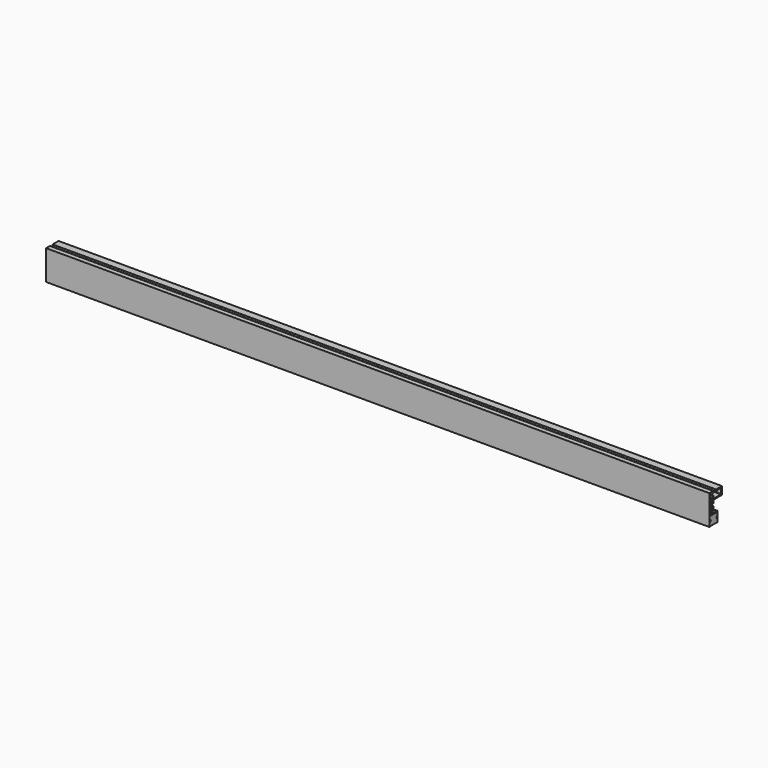
from build123d import *

# Parameters (mm, degrees)
F1_DEPTH = 900


with BuildPart() as f1:
    # F0 (on Right) → F1 (new body)
    with BuildSketch(Plane.YZ):
        Polygon((97.953237, 9.576591), (97.953237, 20.209017), (88.106465, 20.209017), (87.959187, 20.159924), (87.860829, 20.061739), (87.811737, 19.914461), (87.811737, 17.704432), (87.836541, 17.704432), (87.885806, 17.507717), (87.983819, 17.360612), (88.131269, 17.262254), (88.32764, 17.213162), (89.309664, 17.213162), (89.506207, 17.262254), (89.653657, 17.360612), (89.751842, 17.507717), (89.800935, 17.704432), (89.825395, 17.704432), (89.825395, 18.711261), (96.136121, 18.711261), (96.283571, 18.661997), (96.381584, 18.563811), (96.430677, 18.416361), (96.455309, 18.416361), (96.455309, 11.197164), (96.430677, 11.197164), (96.381584, 11.049886), (96.283571, 10.951701), (96.136121, 10.902263), (96.136121, 10.877976), (83.809397, 10.877976), (83.809397, 14.291204), (83.760132, 14.438482), (83.613027, 14.487747), (83.318299, 14.487747), (83.146388, 14.389389), (83.146388, 14.414022), (78.947506, 8.054203), (78.922874, 8.054203), (78.800056, 7.955846), (78.677238, 7.931385), (78.529961, 7.980478), (78.431775, 8.078663), (78.382683, 8.226113), (78.382683, 17.606075), (82.778108, 17.606075), (82.778108, 17.630707), (82.999283, 17.6798), (83.195481, 17.85171), (83.195481, 17.827078), (83.637487, 18.490086), (83.613027, 18.514719), (83.735672, 18.760354), (83.784937, 19.05491), (83.809397, 19.05491), (83.809397, 19.619733), (83.784937, 19.619733), (83.735672, 19.840736), (83.613027, 20.037279), (83.416656, 20.159924), (83.195481, 20.209017), (76.78657, 20.209017), (76.78657, -20.209016), (77.793399, -20.209016), (77.793399, -14.585931), (77.916045, -14.414021), (77.891584, -14.414021), (78.16168, -14.021108), (78.308958, -13.603562), (78.358223, -13.136924), (78.358223, -13.063371), (78.308958, -12.596733), (78.16168, -12.17936), (77.891584, -11.786274), (77.916045, -11.786274), (77.793399, -11.614708), (77.793399, -7.170018), (89.727382, -7.170018), (89.727382, -11.614708), (89.57976, -11.786274), (89.604564, -11.786274), (89.334469, -12.17936), (89.187019, -12.596733), (89.137926, -13.063371), (89.137926, -13.136924), (89.187019, -13.603562), (89.334469, -14.021108), (89.604564, -14.414021), (89.57976, -14.414021), (89.727382, -14.585931), (89.727382, -20.012645), (90.02211, -20.012645), (90.562129, -18.490085), (90.537669, -18.490085), (90.660314, -17.998987), (90.709579, -17.508061), (90.733867, -17.508061), (90.733867, -6.875291), (90.709579, -6.875291), (90.684774, -6.65446), (90.586589, -6.48255), (90.414851, -6.310639), (90.242768, -6.212454), (90.02211, -6.187994), (90.02211, -6.163534), (78.775596, -6.163534), (78.775596, -3.658949), (83.809397, -3.658949), (83.809397, 1.64512), (82.286837, 1.64512), (82.286837, -2.160677), (79.291327, -2.160677), (79.291327, 6.237087), (80.518986, 8.078663), (81.402912, 8.078663), (82.286837, 8.078663), (82.286837, 5.058348), (83.809397, 5.058348), (83.809397, 9.576591), align=None)
        Polygon((77.940505, -7.489207), (77.940505, -11.737354), (79.389512, -13.505377), (77.940505, -15.24894), (77.940505, -19.816103), (89.57976, -19.816103), (89.57976, -15.24894), (88.106465, -13.505377), (89.57976, -11.737354), (89.57976, -7.489207), align=None)
    extrude(amount=F1_DEPTH)


solid = f1.part
